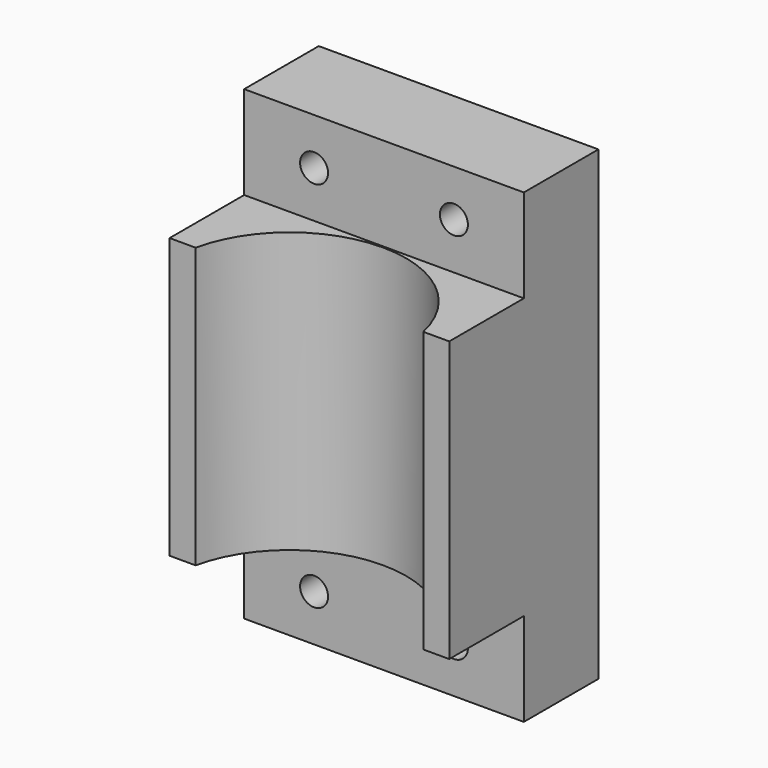
from build123d import *

# Parameters (mm, degrees)
F0_W     = 30
F0_H     = 50
F1_DEPTH = 10
F2_R     = 1.5
F3_DEPTH = 10.001
F4_W     = 30
F4_H     = 30
F5_DEPTH = 10
F6_R     = 12.5
F7_DEPTH = 25.001
F8_DEPTH = 25.001


with BuildPart() as f1:
    # F0 (on Front) → F1 (new body)
    with BuildSketch(Plane.XZ):
        Rectangle(F0_W, F0_H)
    extrude(amount=F1_DEPTH)

    # F2 (on face) → F3 (cut, through all)
    with BuildSketch(Plane.XZ.offset(10)):
        with Locations((7.5, -20)):
            Circle(F2_R)
        with Locations((-7.5, -20)):
            Circle(F2_R)
        with Locations((7.5, 20)):
            Circle(F2_R)
        with Locations((-7.5, 20)):
            Circle(F2_R)
    extrude(amount=-F3_DEPTH, mode=Mode.SUBTRACT)

    # F4 (on face) → F5 (join)
    with BuildSketch(Plane.XZ.offset(10)):
        Rectangle(F4_W, F4_H)
    extrude(amount=F5_DEPTH)

    # F6 (on Top) → F7 (cut, through all)
    with BuildSketch(Plane.XY):
        with Locations((0, -22.66825)):
            Circle(F6_R)
    extrude(amount=-F7_DEPTH, mode=Mode.SUBTRACT)

    # F6 (on Top) → F8 (cut, through all)
    with BuildSketch(Plane.XY):
        with Locations((0, -22.66825)):
            Circle(F6_R)
    extrude(amount=F8_DEPTH, mode=Mode.SUBTRACT)


solid = f1.part
